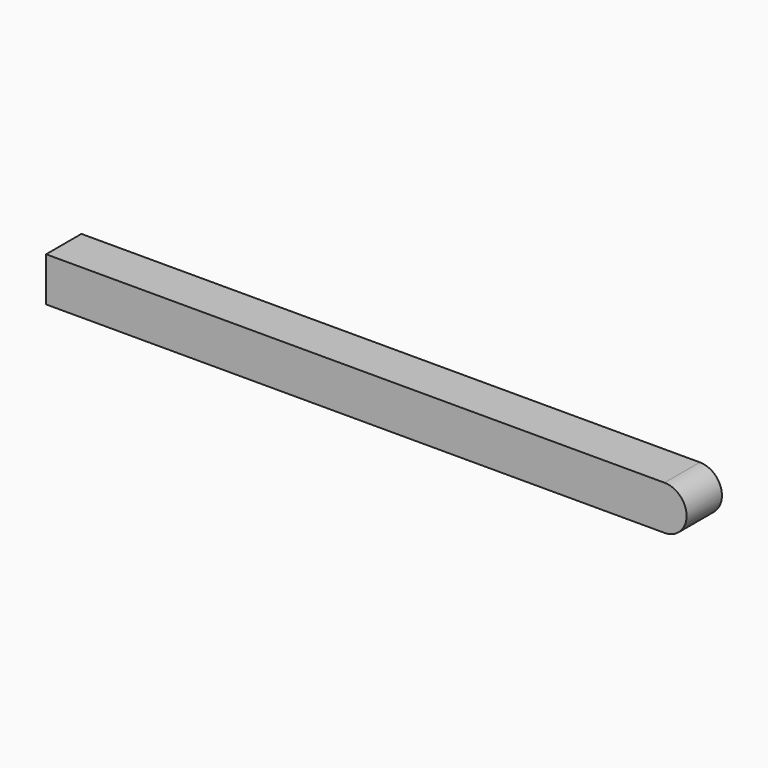
from build123d import *

# Parameters (mm, degrees)
F1_DEPTH = 3.175


with BuildPart() as f1:
    # F0 (on Front) → F1 (new body, symmetric)
    with BuildSketch(Plane.XZ):
        with BuildLine():
            Line((46.46081, 23.090706), (-42.43919, 23.090706))
            Line((-42.43919, 23.090706), (-42.43919, 16.740706))
            Line((-42.43919, 16.740706), (46.46081, 16.740706))
            ThreePointArc((46.46081, 16.740706), (49.63581, 19.915706), (46.46081, 23.090706))
        make_face()
    extrude(amount=F1_DEPTH, both=True)


solid = f1.part
